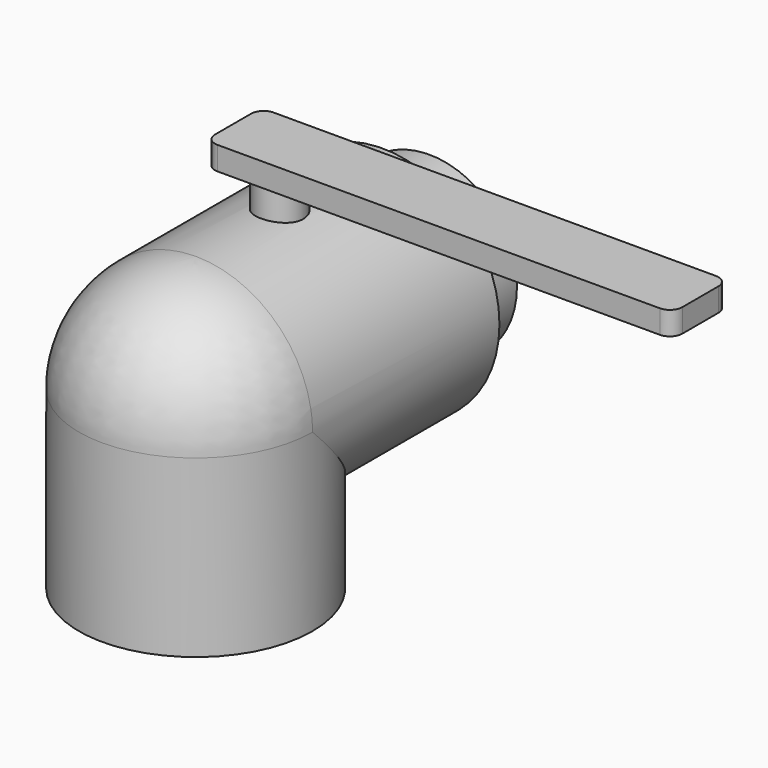
from build123d import *

# Parameters (mm, degrees)
F0_R      = 9.525
F1_DEPTH  = 6.35
F2_R      = 12.7
F3_DEPTH  = 25.4
F6_R      = 12.7
F7_DEPTH  = 19.05
F8_R      = 2.54
F9_DEPTH  = 19.05
F10_R     = 2.54
F11_DEPTH = 2.54


with BuildPart() as f1:
    # F0 (on Front) → F1 (new body)
    with BuildSketch(Plane.XZ):
        Circle(F0_R)
    extrude(amount=F1_DEPTH)

    # F2 (on face) → F3 (join)
    with BuildSketch(Plane.XZ.offset(6.35)):
        Circle(F2_R)
    extrude(amount=F3_DEPTH)

    # F4 (on Right) → F5 (revolve)
    with BuildSketch(Plane.YZ):
        with BuildLine():
            Line((-31.75, 0), (-31.75, 12.7))
            ThreePointArc((-31.75, 12.7), (-40.730256, 8.980256), (-44.45, 0))
            Line((-44.45, 0), (-31.75, 0))
        make_face()
    revolve(axis=Axis((0, -31.75, 6.35), (0, 0, 1)))

    # F6 (on face) → F7 (join)
    with BuildSketch(Plane(origin=(0, 0, 0), x_dir=(1, 0, 0), z_dir=(0, 0, -1))):
        with Locations((0, 31.75)):
            Circle(F6_R)
    extrude(amount=F7_DEPTH)

    # F8 (on Top) → F9 (join)
    with BuildSketch(Plane.XY):
        with Locations((0, -20.32)):
            Circle(F8_R)
    extrude(amount=F9_DEPTH)

    # F10 (on face) → F11 (join)
    with BuildSketch(Plane.XY.offset(19.05)):
        with BuildLine():
            ThreePointArc((45.72, -17.869775), (45.321731, -16.908269), (44.360225, -16.51))
            Line((44.360225, -16.51), (-3.720225, -16.51))
            ThreePointArc((-3.720225, -16.51), (-4.681731, -16.908269), (-5.08, -17.869775))
            Line((-5.08, -17.869775), (-5.08, -22.770225))
            ThreePointArc((-5.08, -22.770225), (-4.681731, -23.731731), (-3.720225, -24.13))
            Line((-3.720225, -24.13), (44.360225, -24.13))
            ThreePointArc((44.360225, -24.13), (45.321731, -23.731731), (45.72, -22.770225))
            Line((45.72, -22.770225), (45.72, -17.869775))
        make_face()
        with Locations((0, -20.32)):
            Circle(F10_R, mode=Mode.SUBTRACT)
    extrude(amount=-F11_DEPTH)


solid = f1.part
